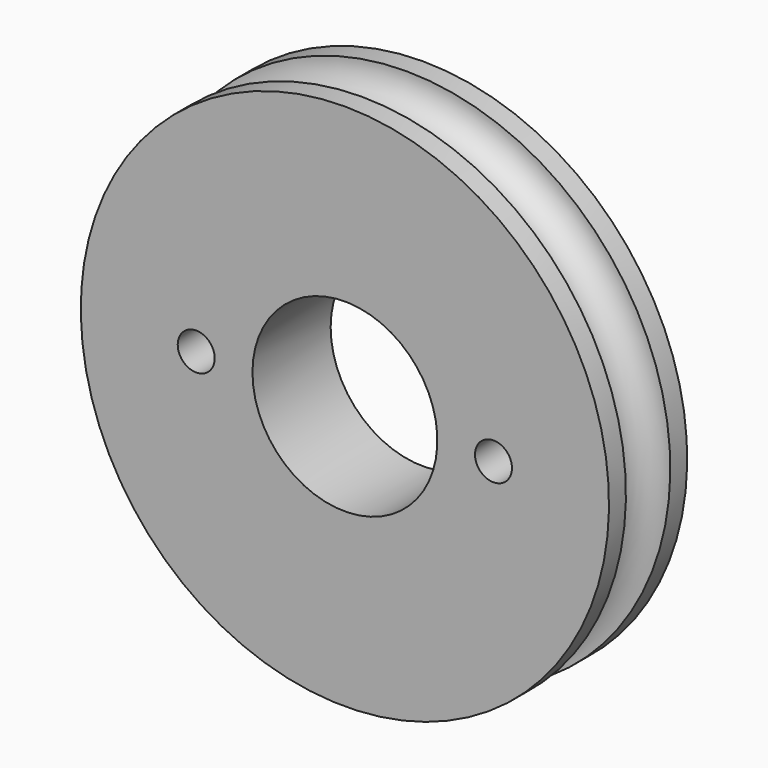
from build123d import *

# Parameters (mm, degrees)
F3_D           = 3.556
F3_CSINK_D     = 7.112
F3_CSINK_ANGLE = 90
F5_D           = 17.78


with BuildPart() as f1:
    # F0 (on Right) → F1 (revolve)
    with BuildSketch(Plane.YZ):
        with BuildLine():
            ThreePointArc((-2.032, 25.4), (-4.699, 22.57337), (-7.366, 25.4))
            Line((-7.366, 25.4), (-9.398, 25.4))
            Line((-9.398, 25.4), (-9.398, 0))
            Line((-9.398, 0), (0, 0))
            Line((0, 0), (0, 25.4))
            Line((0, 25.4), (-2.032, 25.4))
        make_face()
    revolve(axis=Axis((0, -4.699, 0), (0, 1, 0)))

    # F3 (through all)
    with Locations(Plane(origin=(0, 0, 0), x_dir=(1, 0, 0), z_dir=(0, 1, 0))):
        with Locations((14.2875, 0), (-14.3002, 0)):
            CounterSinkHole(F3_D / 2, F3_CSINK_D / 2, counter_sink_angle=F3_CSINK_ANGLE)

    # F5 (through all)
    with Locations(Plane.XZ.offset(9.398)):
        with Locations((0, 0)):
            Hole(F5_D / 2)


solid = f1.part
